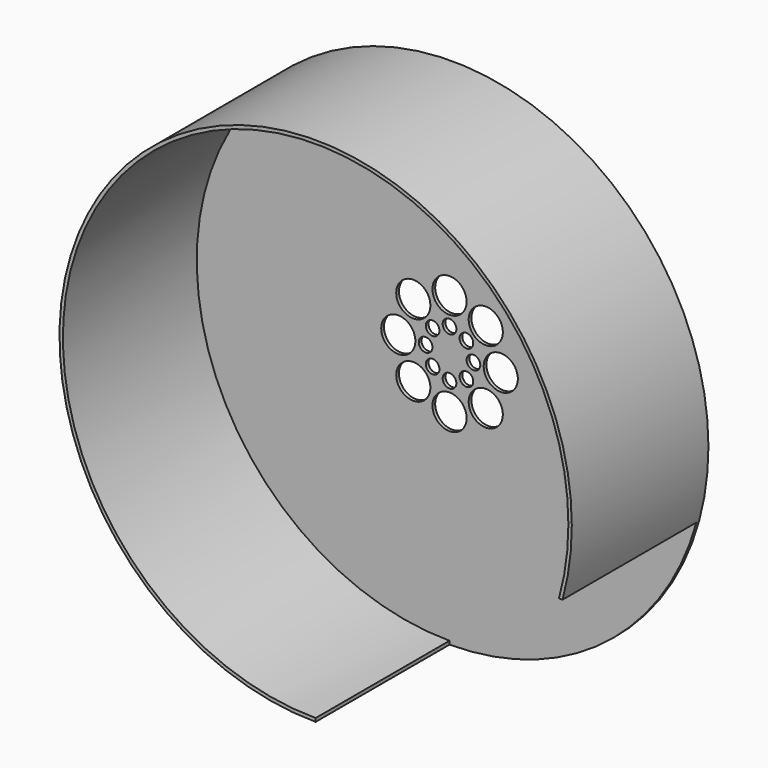
from build123d import *

# Parameters (mm, degrees)
F0_R     = 75
F1_DEPTH = 50
F2_T     = -1
F3_W     = 49
F3_H     = 55
F4_DEPTH = 100
F5_R     = 5
F5_R_2   = 2
F6_DEPTH = 25


with BuildPart() as f1:
    # F0 (on Front) → F1 (new body)
    with BuildSketch(Plane.XZ):
        Circle(F0_R)
    extrude(amount=F1_DEPTH)

    # F2
    f2_openings = [f1.faces().sort_by_distance(p)[0] for p in [
        (0, -50, 0),
    ]]
    offset(amount=F2_T, openings=f2_openings)

    # F3 (on Right) → F4 (cut)
    with BuildSketch(Plane.YZ):
        with Locations((-25.5, -47.5)):
            Rectangle(F3_W, F3_H)
    extrude(amount=F4_DEPTH, mode=Mode.SUBTRACT)

    # F5 (on face) → F6 (cut)
    with BuildSketch(Plane(origin=(0, 0, 0), x_dir=(-1, 0, 0), z_dir=(0, 1, 0))):
        with Locations((0, 15)):
            Circle(F5_R)
        with Locations((-10.606602, 10.606602)):
            Circle(F5_R)
        with Locations((-15, 0)):
            Circle(F5_R)
        with Locations((-10.606602, -10.606602)):
            Circle(F5_R)
        with Locations((0, -15)):
            Circle(F5_R)
        with Locations((10.606602, -10.606602)):
            Circle(F5_R)
        with Locations((15, 0)):
            Circle(F5_R)
        with Locations((10.606602, 10.606602)):
            Circle(F5_R)
        with Locations((0, 7)):
            Circle(F5_R_2)
        with Locations((-4.949747, 4.949747)):
            Circle(F5_R_2)
        with Locations((-7, 0)):
            Circle(F5_R_2)
        with Locations((-4.949747, -4.949747)):
            Circle(F5_R_2)
        with Locations((0, -7)):
            Circle(F5_R_2)
        with Locations((4.949747, -4.949747)):
            Circle(F5_R_2)
        with Locations((7, 0)):
            Circle(F5_R_2)
        with Locations((4.949747, 4.949747)):
            Circle(F5_R_2)
    extrude(amount=-F6_DEPTH, mode=Mode.SUBTRACT)


solid = f1.part
